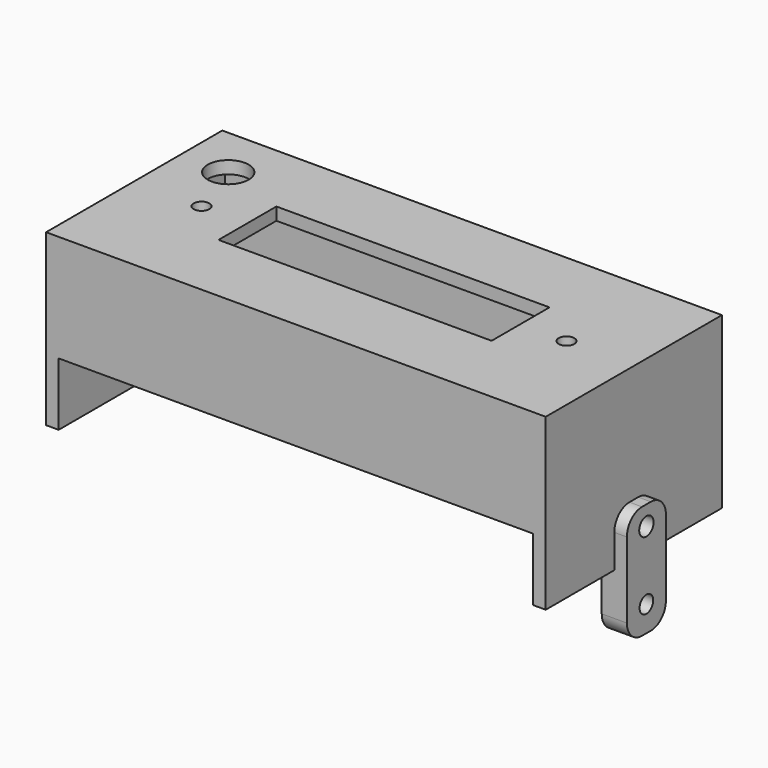
from build123d import *

# Parameters (mm, degrees)
F0_W      = 79.4
F0_H      = 35
F1_DEPTH  = 17
F2_T      = -2
F4_DEPTH  = 10
F6_R      = 1.2352269845
F7_DEPTH  = 79.401
F5_W      = 43.4
F5_H      = 11.5
F5_R      = 1.25
F8_DEPTH  = 25
F9_R      = 3.25
F10_DEPTH = 25
F11_R     = 1.4286021356
F11_R_2   = 1.3479290996
F12_DEPTH = 2
F13_DEPTH = 2


with BuildPart() as f1:
    # F0 (on Top) → F1 (new body)
    with BuildSketch(Plane.XY):
        Rectangle(F0_W, F0_H)
    extrude(amount=F1_DEPTH)

    # F2
    f2_openings = [f1.faces().sort_by_distance(p)[0] for p in [
        (0, 0, 0),
    ]]
    offset(amount=F2_T, openings=f2_openings)

    # F3 (on face) → F4 (join)
    with BuildSketch(Plane(origin=(0, 0, 0), x_dir=(1, 0, 0), z_dir=(0, 0, -1))):
        Polygon((37.7, 17.5), (37.7, 15.5), (37.7, -15.5), (37.7, -17.5), (39.7, -17.5), (39.7, 17.5), align=None)
        Polygon((-37.7, -15.5), (-37.7, 15.5), (-37.7, 17.5), (-39.7, 17.5), (-39.7, -17.5), (-37.7, -17.5), align=None)
    extrude(amount=F4_DEPTH)

    # F6 (on face) → F7 (cut, through all)
    with BuildSketch(Plane.YZ.offset(39.7)):
        with Locations((0, -4.7845388763)):
            Circle(F6_R)
    extrude(amount=-F7_DEPTH, mode=Mode.SUBTRACT)

    # F5 (on face) → F8 (cut)
    with BuildSketch(Plane.XY.offset(17)):
        Rectangle(F5_W, F5_H)
        with Locations((-29, 0)):
            Circle(F5_R)
        with Locations((29, 0)):
            Circle(F5_R)
    extrude(amount=-F8_DEPTH, mode=Mode.SUBTRACT)

    # F9 (on face) → F10 (cut)
    with BuildSketch(Plane.XY.offset(17)):
        with Locations((-32.1270376444, 9.2142354697)):
            Circle(F9_R)
    extrude(amount=-F10_DEPTH, mode=Mode.SUBTRACT)


with BuildPart() as f12:
    # F11 (on face) → F12 (new body)
    with BuildSketch(Plane.YZ.offset(39.7)):
        with BuildLine():
            Line((-3.8733091205, -10), (3.8733091205, -10))
            Line((3.8733091205, -10), (3.8733091205, -4.708175987))
            ThreePointArc((3.8733091205, -4.708175987), (2.9946294641, -2.5868556434), (0.8733091205, -1.708175987))
            Line((0.8733091205, -1.708175987), (-0.8733091205, -1.708175987))
            ThreePointArc((-0.8733091205, -1.708175987), (-2.9946294641, -2.5868556434), (-3.8733091205, -4.708175987))
            Line((-3.8733091205, -4.708175987), (-3.8733091205, -10))
        make_face()
        with Locations((0, -4.7845388763)):
            Circle(F11_R, mode=Mode.SUBTRACT)
        with BuildLine():
            Line((-0.8733091205, -19.7498425841), (0.8733091205, -19.7498425841))
            ThreePointArc((0.8733091205, -19.7498425841), (2.9946294641, -18.8711629277), (3.8733091205, -16.7498425841))
            Line((3.8733091205, -16.7498425841), (3.8733091205, -10))
            Line((3.8733091205, -10), (-3.8733091205, -10))
            Line((-3.8733091205, -10), (-3.8733091205, -16.7498425841))
            ThreePointArc((-3.8733091205, -16.7498425841), (-2.9946294641, -18.8711629277), (-0.8733091205, -19.7498425841))
        make_face()
        with Locations((0, -15.6874805689)):
            Circle(F11_R_2, mode=Mode.SUBTRACT)
    extrude(amount=F12_DEPTH)

    # F11 (on face) → F13 (join)
    with BuildSketch(Plane.YZ.offset(39.7)):
        with BuildLine():
            Line((-0.8733091205, -19.7498425841), (0.8733091205, -19.7498425841))
            ThreePointArc((0.8733091205, -19.7498425841), (2.9946294641, -18.8711629277), (3.8733091205, -16.7498425841))
            Line((3.8733091205, -16.7498425841), (3.8733091205, -10))
            Line((3.8733091205, -10), (-3.8733091205, -10))
            Line((-3.8733091205, -10), (-3.8733091205, -16.7498425841))
            ThreePointArc((-3.8733091205, -16.7498425841), (-2.9946294641, -18.8711629277), (-0.8733091205, -19.7498425841))
        make_face()
        with Locations((0, -15.6874805689)):
            Circle(F11_R_2, mode=Mode.SUBTRACT)
    extrude(amount=-F13_DEPTH)


solid = Compound([f1.part, f12.part])
